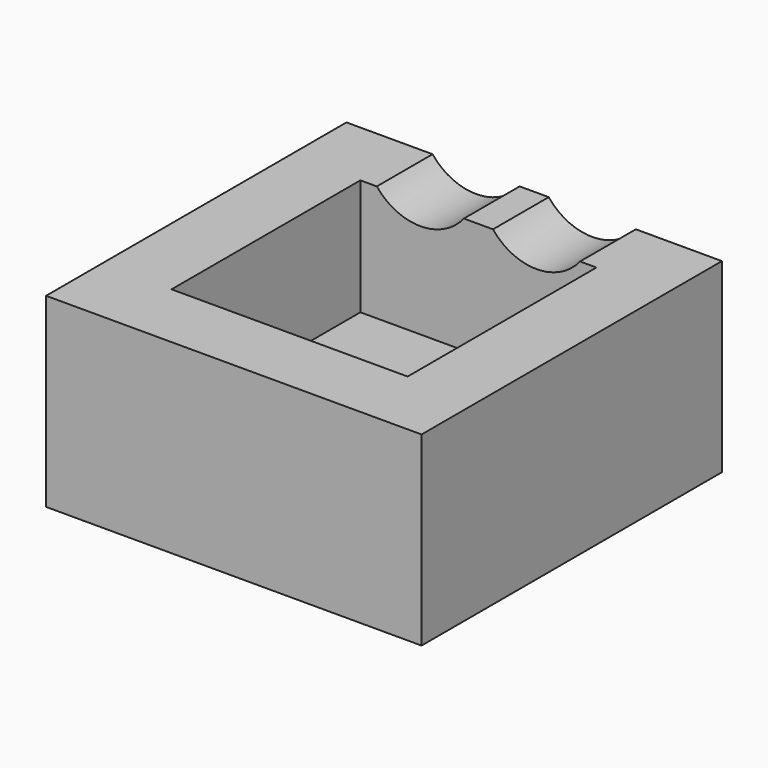
from build123d import *

# Parameters (mm, degrees)
SKETCH001_W     = 16.16
SKETCH001_H     = 16.16
SKETCH001_R     = 1.43
PAD_DEPTH       = 8
SKETCH002_W     = 10.16
SKETCH002_H     = 10.16
POCKET_DEPTH    = 5
SKETCH003_R     = 2.4
POCKET001_DEPTH = 3.081


with BuildPart() as part:
    # Sketch001 → Pad (new body)
    with BuildSketch(Plane.XY):
        with Locations((5, 5)):
            Rectangle(SKETCH001_W, SKETCH001_H)
        with Locations((2, 2)):
            Circle(SKETCH001_R, mode=Mode.SUBTRACT)
        with Locations((8, 2)):
            Circle(SKETCH001_R, mode=Mode.SUBTRACT)
    extrude(amount=PAD_DEPTH)

    # Sketch002 → Pocket (cut)
    with BuildSketch(Plane.XY.offset(8)):
        with Locations((5, 5)):
            Rectangle(SKETCH002_W, SKETCH002_H)
    extrude(amount=-POCKET_DEPTH, mode=Mode.SUBTRACT)

    # Sketch003 → Pocket001 (cut, through all)
    with BuildSketch(Plane.XZ.offset(-10)):
        with Locations((2.5, 9.5)):
            Circle(SKETCH003_R)
        with Locations((7.5, 9.5)):
            Circle(SKETCH003_R)
    extrude(amount=-POCKET001_DEPTH, mode=Mode.SUBTRACT)


solid = part.part
